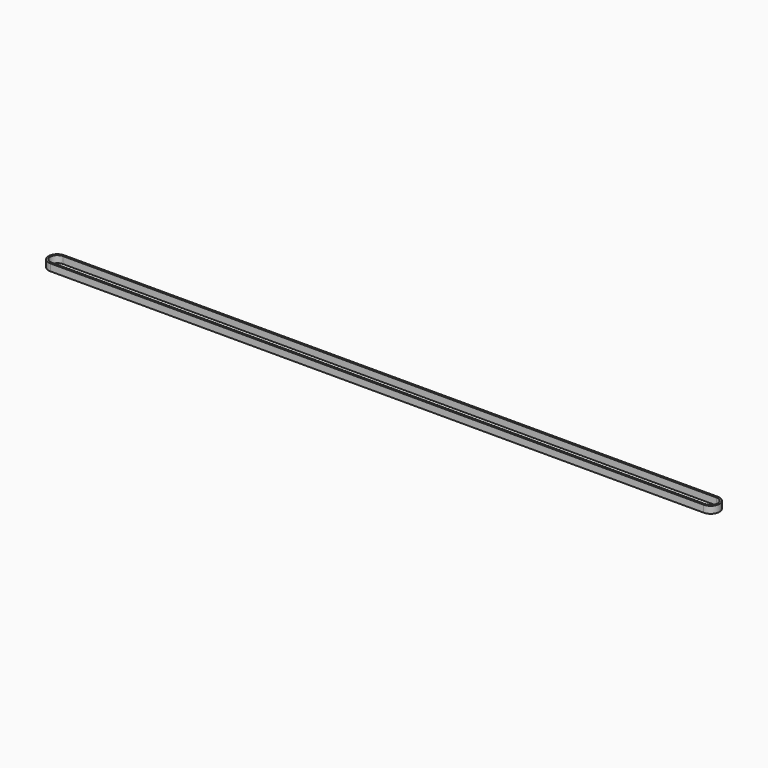
from build123d import *

# Parameters (mm, degrees)
F1_DEPTH = 3


with BuildPart() as f1:
    # F0 (on Top) → F1 (new body, symmetric)
    with BuildSketch(Plane.XY):
        with BuildLine():
            ThreePointArc((-280, 7.5), (-287.5, 0), (-280, -7.5))
            Line((-280, -7.5), (280, -7.5))
            ThreePointArc((280, -7.5), (287.5, 0), (280, 7.5))
            Line((280, 7.5), (-280, 7.5))
        make_face()
        with BuildLine():
            Line((280, -6), (-280, -6))
            ThreePointArc((-280, -6), (-286, 0), (-280, 6))
            Line((-280, 6), (280, 6))
            ThreePointArc((280, 6), (286, 0), (280, -6))
        make_face(mode=Mode.SUBTRACT)
    extrude(amount=F1_DEPTH, both=True)


solid = f1.part
